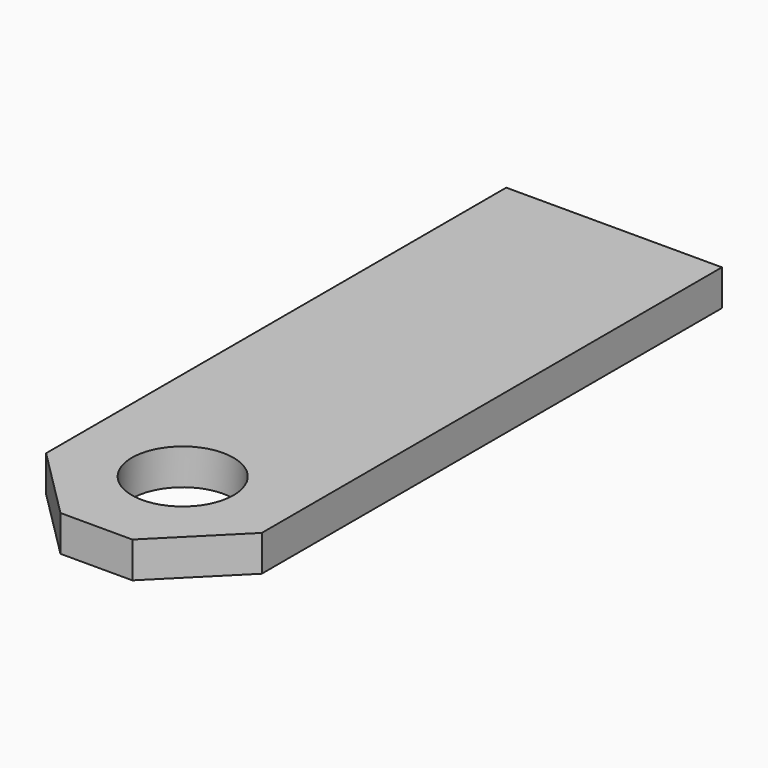
from build123d import *

# Parameters (mm, degrees)
SKETCH016_R      = 0.353553
EXTRUDE015_DEPTH = 2
EXTRUDE014_DEPTH = 0.25


with BuildPart() as extrude015:
    # Sketch016 → Extrude015 (new body)
    with BuildSketch(Plane.XY):
        with Locations((7, -3.25)):
            Circle(SKETCH016_R)
    extrude(amount=EXTRUDE015_DEPTH)


with BuildPart() as cut007:
    # Sketch015 → Extrude014 (new body)
    with BuildSketch(Plane(origin=(0.25, 0, 1), x_dir=(1, 0, 0), z_dir=(0, 0, 1))):
        Polygon((7.5, 0.5), (7.5, -3.5), (7, -4), (6.5, -4), (6, -3.5), (6, 0.5), align=None)
    extrude(amount=EXTRUDE014_DEPTH)


with BuildPart() as cut007_1:
    # Extrude014 placement: moved
    add(cut007.part.moved(Location((0, 0, -0.125))))

    # Cut007: cut Extrude015
    add(extrude015.part, mode=Mode.SUBTRACT)


solid = cut007_1.part
